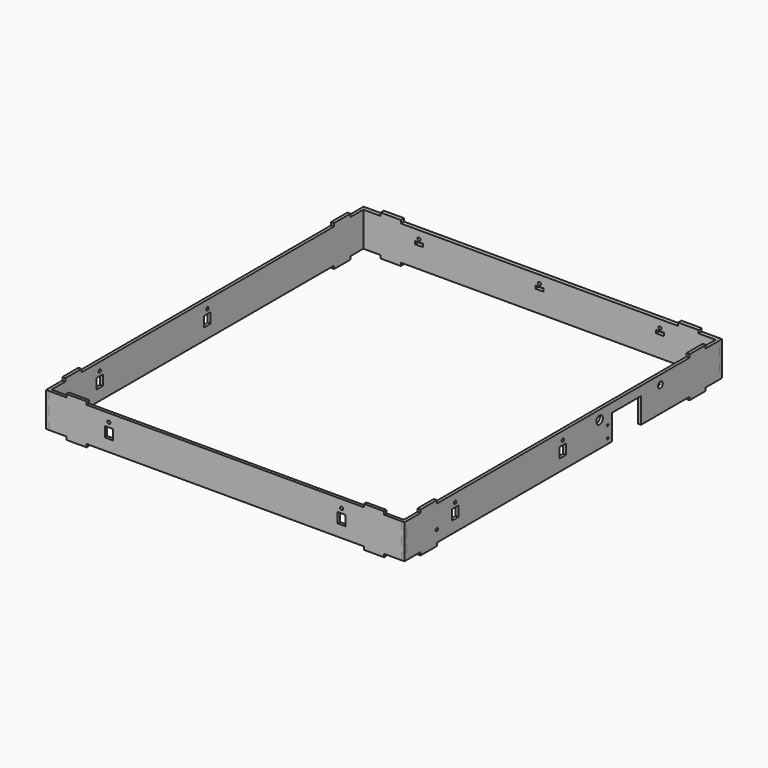
from build123d import *

# Parameters (mm, degrees)
SKETCH_R      = 1.5
SKETCH_W      = 8
SKETCH_H      = 10
PAD_DEPTH     = 3
SKETCH001_R   = 1.5
SKETCH001_W   = 8
SKETCH001_H   = 10
PAD001_DEPTH  = 3
SKETCH002_R   = 1.5
SKETCH002_W   = 8
SKETCH002_H   = 3
PAD002_DEPTH  = 4
SKETCH003_R   = 1.5
SKETCH003_R_2 = 4
SKETCH003_R_3 = 3
SKETCH003_R_4 = 1
SKETCH003_W   = 8
SKETCH003_H   = 10
PAD003_DEPTH  = 3


with BuildPart() as top:
    # Sketch → Pad (new body)
    with BuildSketch(Plane.XZ):
        Polygon((0, 27.2), (-3, 27.2), (-3, 20.4), (0, 20.4), (0, 13.6), (-3, 13.6), (-3, 6.8), (0, 6.8), (0, 0), (17, 0), (17, -3), (37, -3), (37, 0), (311, 0), (311, -3), (331, -3), (331, 0), (348, 0), (348, 6.8), (351, 6.8), (351, 13.6), (348, 13.6), (348, 20.4), (351, 20.4), (351, 27.2), (348, 27.2), (348, 34), (331, 34), (331, 37), (311, 37), (311, 34), (37, 34), (37, 37), (17, 37), (17, 34), (0, 34), align=None)
        with Locations((59, 26)):
            Circle(SKETCH_R, mode=Mode.SUBTRACT)
        with Locations((289, 26)):
            Circle(SKETCH_R, mode=Mode.SUBTRACT)
        with Locations((59, 16.5)):
            Rectangle(SKETCH_W, SKETCH_H, mode=Mode.SUBTRACT)
        with Locations((289, 16.5)):
            Rectangle(SKETCH_W, SKETCH_H, mode=Mode.SUBTRACT)
    extrude(amount=PAD_DEPTH)


with BuildPart() as right:
    # Sketch001 → Pad001 (new body)
    with BuildSketch(Plane.YZ):
        Polygon((-3, 20.4), (-3, 13.6), (0, 13.6), (0, 6.8), (-3, 6.8), (-3, 0), (17, 0), (17, -3), (37, -3), (37, 0), (349, 0), (349, -3), (369, -3), (369, 0), (389, 0), (389, 6.8), (386, 6.8), (386, 13.6), (389, 13.6), (389, 20.4), (386, 20.4), (386, 27.2), (389, 27.2), (389, 34), (369, 34), (369, 37), (349, 37), (349, 34), (37, 34), (37, 37), (17, 37), (17, 34), (-3, 34), (-3, 27.2), (0, 27.2), (0, 20.4), align=None)
        with Locations((192.5, 26)):
            Circle(SKETCH001_R, mode=Mode.SUBTRACT)
        with Locations((59.5, 26)):
            Circle(SKETCH001_R, mode=Mode.SUBTRACT)
        with Locations((192.5, 16.5)):
            Rectangle(SKETCH001_W, SKETCH001_H, mode=Mode.SUBTRACT)
        with Locations((59.5, 16.5)):
            Rectangle(SKETCH001_W, SKETCH001_H, mode=Mode.SUBTRACT)
    extrude(amount=-PAD001_DEPTH)


with BuildPart() as bottom:
    # Sketch002 → Pad002 (new body)
    with BuildSketch(Plane.XZ):
        Polygon((0, 34), (17, 34), (17, 37), (37, 37), (37, 34), (311, 34), (311, 37), (331, 37), (331, 34), (348, 34), (348, 27.2), (351, 27.2), (351, 20.4), (348, 20.4), (348, 13.6), (351, 13.6), (351, 6.8), (348, 6.8), (348, 0), (331, 0), (331, -3), (311, -3), (311, 0), (37, 0), (37, -3), (17, -3), (17, 0), (0, 0), (0, 6.8), (-3, 6.8), (-3, 13.6), (0, 13.6), (0, 20.4), (-3, 20.4), (-3, 27.2), (0, 27.2), align=None)
        with Locations((174, 26.3)):
            Circle(SKETCH002_R, mode=Mode.SUBTRACT)
        with Locations((293, 26.3)):
            Circle(SKETCH002_R, mode=Mode.SUBTRACT)
        with Locations((55, 26.3)):
            Circle(SKETCH002_R, mode=Mode.SUBTRACT)
        with Locations((174, 22)):
            Rectangle(SKETCH002_W, SKETCH002_H, mode=Mode.SUBTRACT)
        with Locations((55, 22)):
            Rectangle(SKETCH002_W, SKETCH002_H, mode=Mode.SUBTRACT)
        with Locations((293, 22)):
            Rectangle(SKETCH002_W, SKETCH002_H, mode=Mode.SUBTRACT)
    extrude(amount=PAD002_DEPTH)


with BuildPart() as bottom_1:
    # Body002 placement: moved
    add(bottom.part.moved(Location((0, 389, 0))))


with BuildPart() as left:
    # Sketch003 → Pad003 (new body)
    with BuildSketch(Plane.YZ):
        Polygon((17, 37), (17, 34), (-3, 34), (-3, 27.2), (0, 27.2), (0, 20.4), (-3, 20.4), (-3, 13.6), (0, 13.6), (0, 6.8), (-3, 6.8), (-3, 0), (17, 0), (17, -3), (37, -3), (37, 0), (253, 0), (253, 25), (289, 25), (289, 0), (349, 0), (349, -3), (369, -3), (369, 0), (389, 0), (389, 6.8), (386, 6.8), (386, 13.6), (389, 13.6), (389, 20.4), (386, 20.4), (386, 27.2), (389, 27.2), (389, 34), (369, 34), (369, 37), (349, 37), (349, 34), (37, 34), (37, 37), align=None)
        with Locations((59.5, 26)):
            Circle(SKETCH003_R, mode=Mode.SUBTRACT)
        with Locations((192.5, 26)):
            Circle(SKETCH003_R, mode=Mode.SUBTRACT)
        with Locations((238, 25)):
            Circle(SKETCH003_R_2, mode=Mode.SUBTRACT)
        with Locations((313, 25)):
            Circle(SKETCH003_R_3, mode=Mode.SUBTRACT)
        with Locations((248, 16.5)):
            Circle(SKETCH003_R_4, mode=Mode.SUBTRACT)
        with Locations((248, 5)):
            Circle(SKETCH003_R_4, mode=Mode.SUBTRACT)
        with Locations((37, 11.5)):
            Circle(SKETCH003_R, mode=Mode.SUBTRACT)
        with Locations((59.5, 16.5)):
            Rectangle(SKETCH003_W, SKETCH003_H, mode=Mode.SUBTRACT)
        with Locations((192.5, 16.5)):
            Rectangle(SKETCH003_W, SKETCH003_H, mode=Mode.SUBTRACT)
    extrude(amount=-PAD003_DEPTH)


with BuildPart() as left_1:
    # Body003 placement: moved
    add(left.part.moved(Location((351, 0, 0))))


solid = Compound([top.part, right.part, bottom_1.part, left_1.part])
